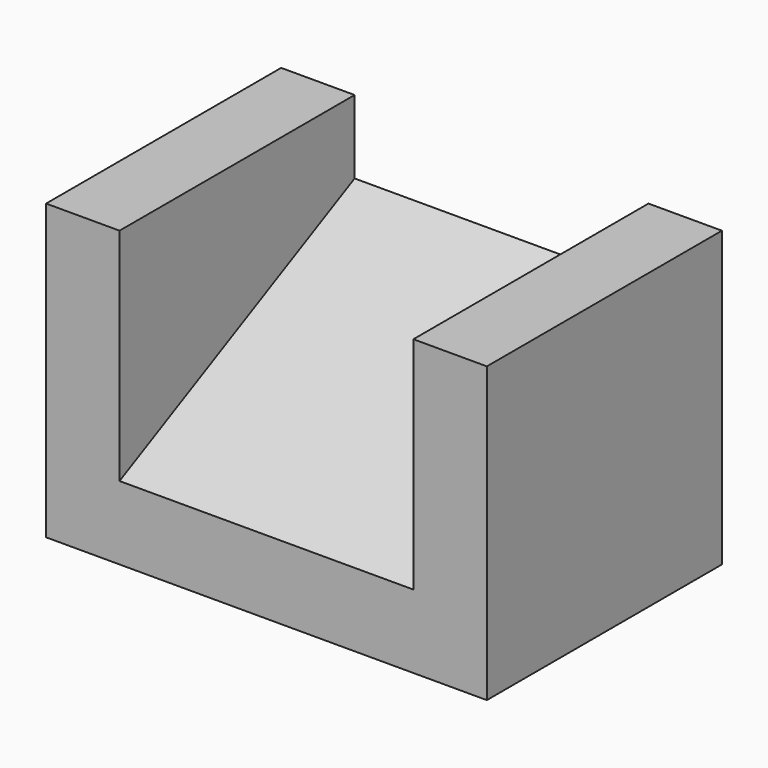
from build123d import *

# Parameters (mm, degrees)
F0_W     = 40
F0_H     = 40
F1_DEPTH = 30
F3_DEPTH = 20


with BuildPart() as f1:
    # F0 (on Right) → F1 (new body, symmetric)
    with BuildSketch(Plane.YZ):
        with Locations((20, 20)):
            Rectangle(F0_W, F0_H)
    extrude(amount=F1_DEPTH, both=True)

    # F2 (on Right) → F3 (cut, symmetric)
    with BuildSketch(Plane.YZ):
        Polygon((40, 40), (0, 40), (0, 10), (40, 30), align=None)
    extrude(amount=F3_DEPTH, both=True, mode=Mode.SUBTRACT)


solid = f1.part
